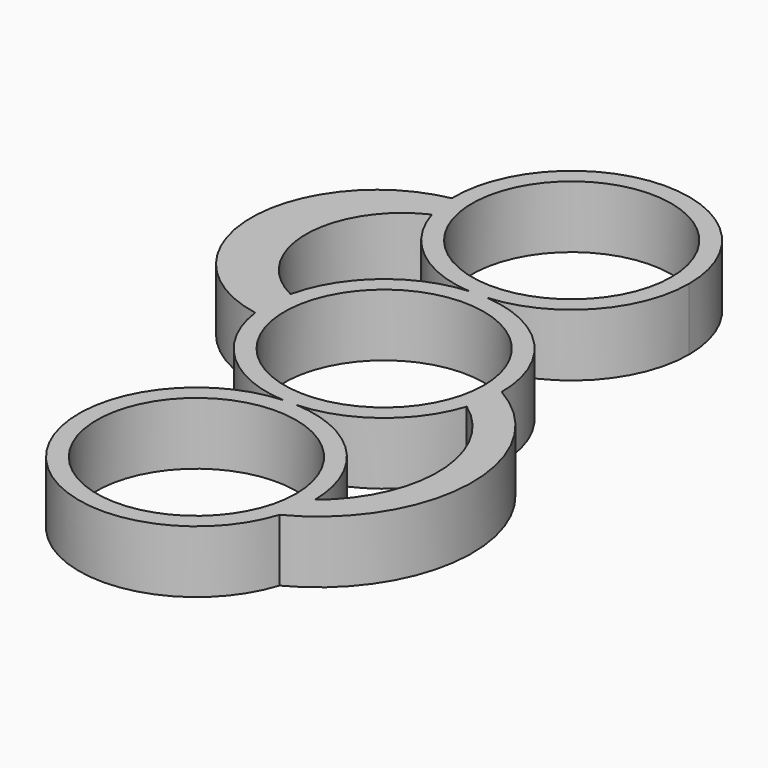
from build123d import *

# Parameters (mm, degrees)
F0_R     = 11.2
F1_DEPTH = 7


with BuildPart() as f1:
    # F0 (on Top) → F1 (new body)
    with BuildSketch(Plane.XY):
        with BuildLine():
            ThreePointArc((-0.9650827881, 13.1646730006), (-8.6022624346, 10.012046794), (-12.8691579618, 2.9367964443))
            ThreePointArc((-12.8691579618, 2.9367964443), (-13.1863620091, 0.599880793), (-13.0826534178, -1.7561832335))
            ThreePointArc((-13.0826534178, -1.7561832335), (-8.9594650145, -9.693708612), (-0.722399634, -13.1802177057))
            ThreePointArc((-0.722399634, -13.1802177057), (0, -13.1604354113), (0.722399634, -13.1802177057))
            ThreePointArc((0.722399634, -13.1802177057), (8.0432942537, -10.4663946777), (12.5501283831, -4.0907551342))
            ThreePointArc((12.5501283831, -4.0907551342), (13.0365197552, -2.0710269606), (13.2, 0))
            ThreePointArc((13.2, 0), (9.6689992451, 8.9861256167), (0.9650827881, 13.1646730006))
            ThreePointArc((0.9650827881, 13.1646730006), (0, 13.1293460011), (-0.9650827881, 13.1646730006))
        make_face()
        Circle(F0_R, mode=Mode.SUBTRACT)
        with BuildLine():
            ThreePointArc((-13.0826534178, -1.7561832335), (-13.1863620091, 0.599880793), (-12.8691579618, 2.9367964443))
            ThreePointArc((-12.8691579618, 2.9367964443), (-18.9175577348, 12.787783411), (-12.6283316175, 22.4867894878))
            ThreePointArc((-12.6283316175, 22.4867894878), (-13.0313646183, 24.2261255691), (-13.1959884441, 26.0039401262))
            ThreePointArc((-13.1959884441, 26.0039401262), (-24.637001113, 12.0769373767), (-13.0826534178, -1.7561832335))
        make_face()
        with BuildLine():
            ThreePointArc((-12.6283316175, 22.4867894878), (-8.2414011401, 16.0182205898), (-0.9650827881, 13.1646730006))
            ThreePointArc((-0.9650827881, 13.1646730006), (0, 13.2), (0.9650827881, 13.1646730006))
            ThreePointArc((0.9650827881, 13.1646730006), (9.6689992451, 17.3432203845), (13.2, 26.3293460011))
            ThreePointArc((13.2, 26.3293460011), (-0.1627153004, 39.5283430741), (-13.1959884441, 26.0039401262))
            ThreePointArc((-13.1959884441, 26.0039401262), (-13.0313646183, 24.2261255691), (-12.6283316175, 22.4867894878))
        make_face()
        with Locations((0, 26.3293460011)):
            Circle(F0_R, mode=Mode.SUBTRACT)
        with BuildLine():
            ThreePointArc((0.9650827881, 13.1646730006), (0, 13.2), (-0.9650827881, 13.1646730006))
            ThreePointArc((-0.9650827881, 13.1646730006), (0, 13.1293460011), (0.9650827881, 13.1646730006))
        make_face()
        with BuildLine():
            ThreePointArc((0.722399634, -13.1802177057), (0, -13.1604354113), (-0.722399634, -13.1802177057))
            ThreePointArc((-0.722399634, -13.1802177057), (0, -13.2), (0.722399634, -13.1802177057))
        make_face()
        with BuildLine():
            ThreePointArc((0.722399634, -13.1802177057), (0, -13.2), (-0.722399634, -13.1802177057))
            ThreePointArc((-0.722399634, -13.1802177057), (-10.4506279527, -34.4242047158), (12.566049408, -30.4020195408))
            ThreePointArc((12.566049408, -30.4020195408), (13.0405493018, -28.4059363053), (13.2, -26.3604354113))
            ThreePointArc((13.2, -26.3604354113), (13.1998442738, -26.2963171862), (13.199377099, -26.2322004739))
            ThreePointArc((13.199377099, -26.2322004739), (9.5416209523, -17.2391707181), (0.722399634, -13.1802177057))
        make_face()
        with Locations((0, -26.3604354113)):
            Circle(F0_R, mode=Mode.SUBTRACT)
        with BuildLine():
            ThreePointArc((13.2, -26.3604354113), (13.0405493018, -28.4059363053), (12.566049408, -30.4020195408))
            ThreePointArc((12.566049408, -30.4020195408), (21.9144963269, -15.3893362984), (13.2, 0))
            ThreePointArc((13.2, 0), (13.0365197552, -2.0710269606), (12.5501283831, -4.0907551342))
            ThreePointArc((12.5501283831, -4.0907551342), (18.3451878997, -15.001069441), (13.199377099, -26.2322004739))
            ThreePointArc((13.199377099, -26.2322004739), (13.1998442738, -26.2963171862), (13.2, -26.3604354113))
        make_face()
    extrude(amount=F1_DEPTH)


solid = f1.part
